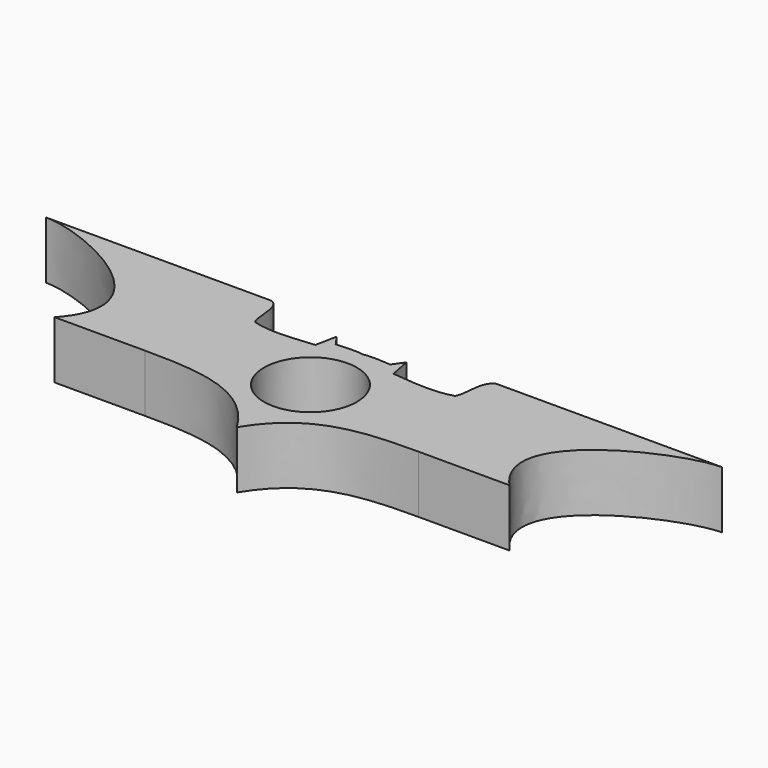
from build123d import *

# Parameters (mm, degrees)
F0_R     = 20.550681
F1_DEPTH = 25.4


with BuildPart() as f1:
    # F0 (on Top) → F1 (new body)
    with BuildSketch(Plane.XY):
        with BuildLine():
            Line((48.768, 81.28), (0, 81.28))
            add(Edge.make_bspline(
                [(0, 81.28), (18.076837, 81.28), (77.019423, 54.973345), (48.768, 24.892)],
                knots=[0, 0, 0, 0, 74.551488, 74.551488, 74.551488, 74.551488], degree=3))
            Line((48.768, 24.892), (88.9, 24.892))
            add(Edge.make_bspline(
                [(88.9, 24.892), (113.589637, 24.856698), (135.101527, 23.565983), (149.352, 0)],
                knots=[0, 0, 0, 0, 65.376265, 65.376265, 65.376265, 65.376265], degree=3))
            add(Edge.make_bspline(
                [(209.804, 24.892), (185.114363, 24.856698), (163.602473, 23.565983), (149.352, 0)],
                knots=[0, 0, 0, 0, 65.376265, 65.376265, 65.376265, 65.376265], degree=3))
            Line((209.804, 24.892), (249.936, 24.892))
            add(Edge.make_bspline(
                [(298.704, 81.28), (280.627163, 81.28), (221.684577, 54.973345), (249.936, 24.892)],
                knots=[0, 0, 0, 0, 74.551488, 74.551488, 74.551488, 74.551488], degree=3))
            Line((298.704, 81.28), (198.964478, 81.28))
            add(Edge.make_bspline(
                [(198.964478, 81.28), (193.548, 78.810617), (195.913056, 68.824157), (193.548, 65.278)],
                knots=[0, 0, 0, 0, 16.893852, 16.893852, 16.893852, 16.893852], degree=3))
            add(Edge.make_bspline(
                [(193.548, 65.278), (185.371795, 62.721319), (175.635478, 64.108327), (166.593328, 64.940535)],
                knots=[0, 0, 0, 0, 26.956784, 26.956784, 26.956784, 26.956784], degree=3))
            Line((166.593328, 64.940535), (164.759207, 74.372195))
            Line((164.759207, 74.372195), (161.391426, 69.656365))
            add(Edge.make_bspline(
                [(161.391426, 69.656365), (160.683038, 69.656365), (153.193192, 70.488572), (149.352, 69.656365)],
                knots=[0, 0, 0, 0, 12.039426, 12.039426, 12.039426, 12.039426], degree=3))
            add(Edge.make_bspline(
                [(137.312574, 69.656365), (138.020962, 69.656365), (145.510808, 70.488572), (149.352, 69.656365)],
                knots=[0, 0, 0, 0, 12.039426, 12.039426, 12.039426, 12.039426], degree=3))
            Line((137.312574, 69.656365), (133.944793, 74.372195))
            Line((133.944793, 74.372195), (132.110672, 64.940535))
            add(Edge.make_bspline(
                [(105.156, 65.278), (113.332205, 62.721319), (123.068522, 64.108327), (132.110672, 64.940535)],
                knots=[0, 0, 0, 0, 26.956784, 26.956784, 26.956784, 26.956784], degree=3))
            add(Edge.make_bspline(
                [(99.739522, 81.28), (105.156, 78.810617), (102.790944, 68.824157), (105.156, 65.278)],
                knots=[0, 0, 0, 0, 16.893852, 16.893852, 16.893852, 16.893852], degree=3))
            Line((99.739522, 81.28), (56.134, 81.28))
            Line((56.134, 81.28), (48.768, 81.28))
        make_face()
        with Locations((149.352, 40.64)):
            Circle(F0_R, mode=Mode.SUBTRACT)
    extrude(amount=F1_DEPTH)


solid = f1.part
